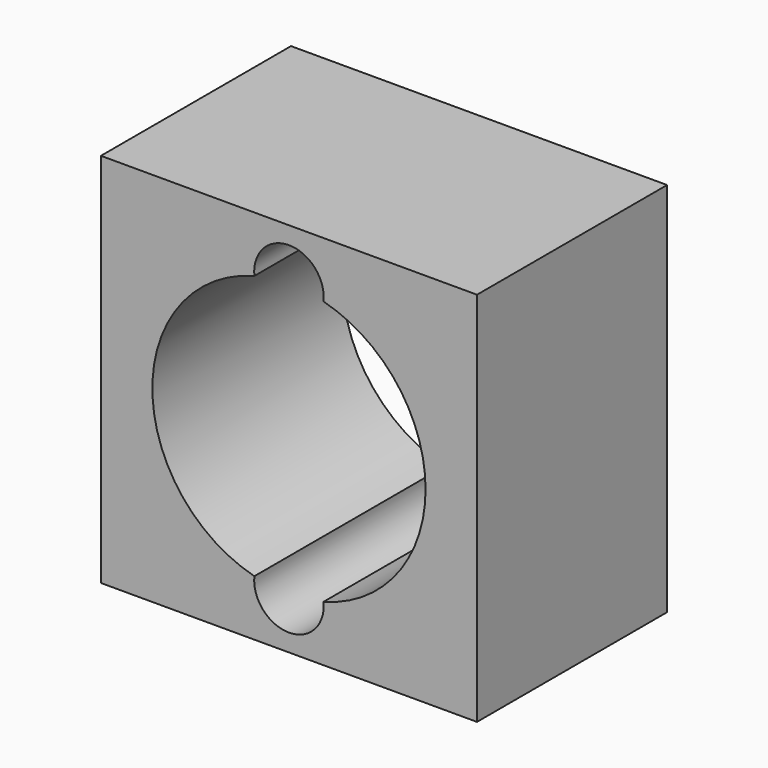
from build123d import *

# Parameters (mm, degrees)
F0_W     = 110.8
F0_H     = 110.8
F1_DEPTH = 70


with BuildPart() as f1:
    # F0 (on Front) → F1 (new body)
    with BuildSketch(Plane.XZ):
        Rectangle(F0_W, F0_H)
        with BuildLine():
            ThreePointArc((10.194783, 38.9375), (31.862223, 24.593927), (40.25, 0))
            ThreePointArc((40.25, 0), (31.862223, -24.593927), (10.194783, -38.9375))
            ThreePointArc((10.194783, -38.9375), (10.236186, -39.468033), (10.25, -40))
            ThreePointArc((10.25, -40), (-0.531967, -50.236186), (-10.194783, -38.9375))
            ThreePointArc((-10.194783, -38.9375), (-40.25, 0), (-10.194783, 38.9375))
            ThreePointArc((-10.194783, 38.9375), (-0.531967, 50.236186), (10.25, 40))
            ThreePointArc((10.25, 40), (10.236186, 39.468033), (10.194783, 38.9375))
        make_face(mode=Mode.SUBTRACT)
    extrude(amount=-F1_DEPTH)


solid = f1.part
